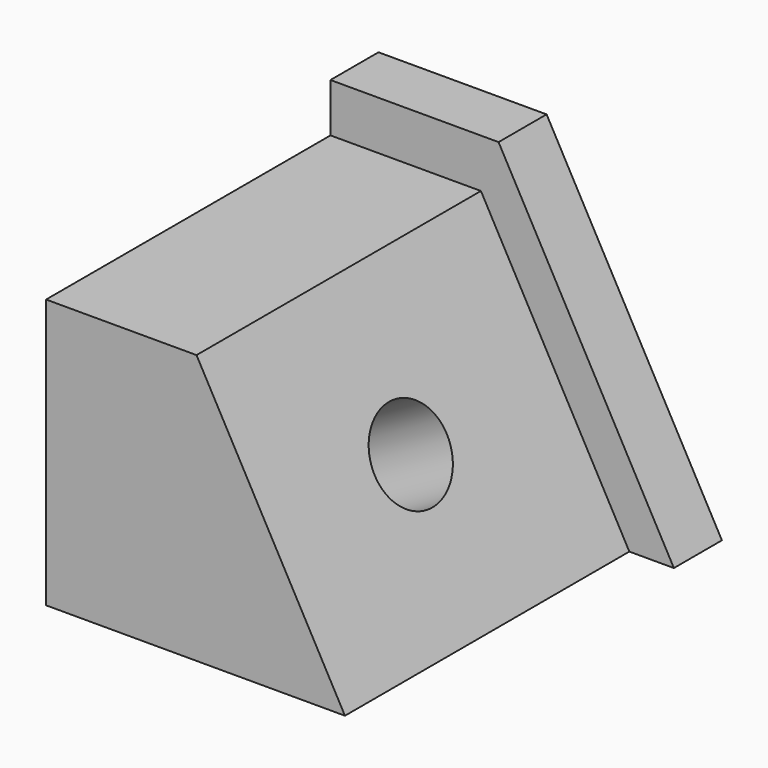
from build123d import *

# Parameters (mm, degrees)
F1_DEPTH = 12.7
F3_DEPTH = 75.184
F5_D     = 19.05


with BuildPart() as f1:
    # F0 (on Front) → F1 (new body)
    with BuildSketch(Plane.XZ):
        Polygon((-86.805733, 67.25759), (-86.805733, 0), (-14.163172, 0), (-51.245734, 67.25759), align=None)
    extrude(amount=F1_DEPTH)

    # F2 (on face) → F3 (join)
    with BuildSketch(Plane.XZ.offset(12.7)):
        Polygon((-54.981604, 56.942139), (-86.805733, 56.942139), (-86.805733, 0), (-23.58648, 0), align=None)
    extrude(amount=F3_DEPTH)

    # F5 (through all)
    with Locations(Plane(origin=(-18.087953, 0, -9.972817), x_dir=(0, 1, 0), z_dir=(0.875716, 0, 0.482827))):
        with Locations((-50.869141, 43.899961)):
            Hole(F5_D / 2)


solid = f1.part
